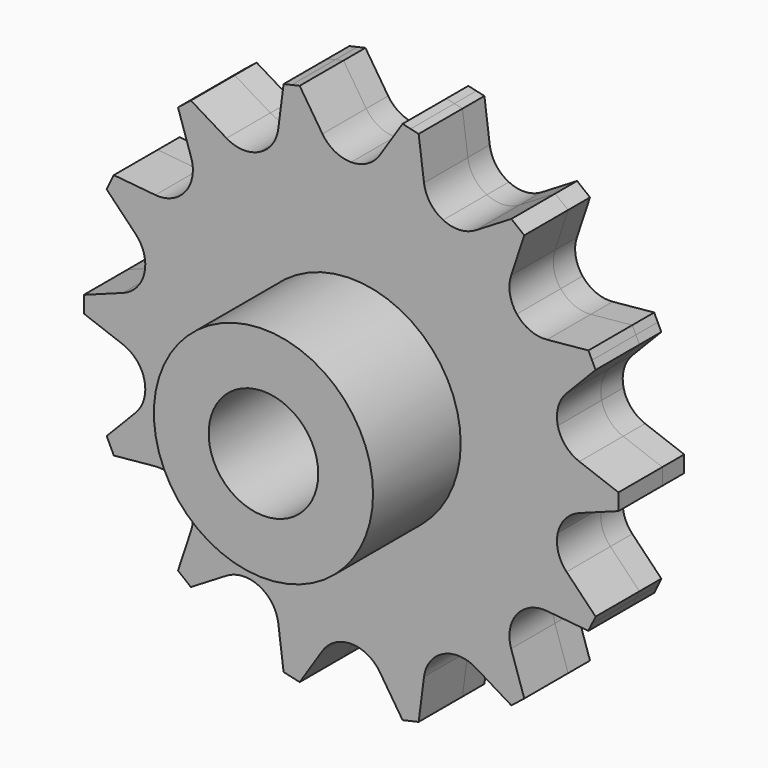
from build123d import *

# Parameters (mm, degrees)
F0_R     = 12.7
F1_DEPTH = 3.175
F0_R_2   = 6.35
F2_DEPTH = 19.05
F3_DEPTH = 6.35


with BuildPart() as f1:
    # F0 (on Front) → F1 (new body, symmetric)
    with BuildSketch(Plane.XZ):
        with BuildLine():
            Line((7.8258368846, 29.9950651579), (6.894686256, 30.2075942125))
            Line((6.894686256, 30.2075942125), (5.9635356275, 30.4201232672))
            Line((5.9635356275, 30.4201232672), (3.3253945197, 26.3703704738))
            ThreePointArc((3.3253945197, 26.3703704738), (1.8912417272, 25.0474890227), (0, 24.5678909672))
            ThreePointArc((0, 24.5678909672), (-1.8912417272, 25.0474890227), (-3.3253945197, 26.3703704738))
            Line((-3.3253945197, 26.3703704738), (-5.9635356275, 30.4201232672))
            Line((-5.9635356275, 30.4201232672), (-6.894686256, 30.2075942125))
            Line((-6.894686256, 30.2075942125), (-7.8258368846, 29.9950651579))
            Line((-7.8258368846, 29.9950651579), (-8.4455980073, 25.2017174402))
            ThreePointArc((-8.4455980073, 25.2017174402), (-9.1637482748, 23.3875868608), (-10.6596083951, 22.1349049115))
            ThreePointArc((-10.6596083951, 22.1349049115), (-12.5716481106, 21.7464287964), (-14.4377518788, 22.3160482237))
            Line((-14.4377518788, 22.3160482237), (-18.5717567705, 24.8201028851))
            Line((-18.5717567705, 24.8201028851), (-19.3184815973, 24.2246097069))
            Line((-19.3184815973, 24.2246097069), (-20.0652064241, 23.6291165287))
            Line((-20.0652064241, 23.6291165287), (-18.5438362705, 19.0415551888))
            ThreePointArc((-18.5438362705, 19.0415551888), (-18.403745545, 17.0954862912), (-19.207950616, 15.3178294712))
            ThreePointArc((-19.207950616, 15.3178294712), (-20.7620854045, 14.1382216445), (-22.690535411, 13.8417589345))
            Line((-22.690535411, 13.8417589345), (-27.5016137176, 14.304156728))
            Line((-27.5016137176, 14.304156728), (-27.9160147326, 13.4436441535))
            Line((-27.9160147326, 13.4436441535), (-28.3304157477, 12.583131579))
            Line((-28.3304157477, 12.583131579), (-24.9692403352, 9.1099794029))
            ThreePointArc((-24.9692403352, 9.1099794029), (-23.9986553028, 7.4174149992), (-23.9519226474, 5.4668700434))
            ThreePointArc((-23.9519226474, 5.4668700434), (-24.8403370538, 3.729766302), (-26.4491801238, 2.6259395303))
            Line((-26.4491801238, 2.6259395303), (-30.9844387827, 0.955096902))
            Line((-30.9844387827, 0.955096902), (-30.9844387827, 0))
            Line((-30.9844387827, 0), (-30.9844387827, -0.955096902))
            Line((-30.9844387827, -0.955096902), (-26.4491801238, -2.6259395303))
            ThreePointArc((-26.4491801238, -2.6259395303), (-24.8403370538, -3.729766302), (-23.9519226474, -5.4668700434))
            ThreePointArc((-23.9519226474, -5.4668700434), (-23.9986553028, -7.4174149992), (-24.9692403352, -9.1099794029))
            Line((-24.9692403352, -9.1099794029), (-28.3304157477, -12.583131579))
            Line((-28.3304157477, -12.583131579), (-27.9160147326, -13.4436441535))
            Line((-27.9160147326, -13.4436441535), (-27.5016137176, -14.304156728))
            Line((-27.5016137176, -14.304156728), (-22.690535411, -13.8417589345))
            ThreePointArc((-22.690535411, -13.8417589345), (-20.7620854045, -14.1382216445), (-19.207950616, -15.3178294712))
            ThreePointArc((-19.207950616, -15.3178294712), (-18.403745545, -17.0954862912), (-18.5438362705, -19.0415551888))
            Line((-18.5438362705, -19.0415551888), (-20.0652064241, -23.6291165287))
            Line((-20.0652064241, -23.6291165287), (-19.3184815973, -24.2246097069))
            Line((-19.3184815973, -24.2246097069), (-18.5717567705, -24.8201028851))
            Line((-18.5717567705, -24.8201028851), (-14.4377518788, -22.3160482237))
            ThreePointArc((-14.4377518788, -22.3160482237), (-12.5716481106, -21.7464287964), (-10.6596083951, -22.1349049115))
            ThreePointArc((-10.6596083951, -22.1349049115), (-9.1637482748, -23.3875868608), (-8.4455980073, -25.2017174402))
            Line((-8.4455980073, -25.2017174402), (-7.8258368846, -29.9950651579))
            Line((-7.8258368846, -29.9950651579), (-6.894686256, -30.2075942125))
            Line((-6.894686256, -30.2075942125), (-5.9635356275, -30.4201232672))
            Line((-5.9635356275, -30.4201232672), (-3.3253945197, -26.3703704738))
            ThreePointArc((-3.3253945197, -26.3703704738), (-1.8912417272, -25.0474890227), (0, -24.5678909672))
            ThreePointArc((0, -24.5678909672), (1.8912417272, -25.0474890227), (3.3253945197, -26.3703704738))
            Line((3.3253945197, -26.3703704738), (5.9635356275, -30.4201232672))
            Line((5.9635356275, -30.4201232672), (6.894686256, -30.2075942125))
            Line((6.894686256, -30.2075942125), (7.8258368846, -29.9950651579))
            Line((7.8258368846, -29.9950651579), (8.4455980073, -25.2017174402))
            ThreePointArc((8.4455980073, -25.2017174402), (9.1637482748, -23.3875868608), (10.6596083951, -22.1349049115))
            ThreePointArc((10.6596083951, -22.1349049115), (12.5716481106, -21.7464287964), (14.4377518788, -22.3160482237))
            Line((14.4377518788, -22.3160482237), (18.5717567705, -24.8201028851))
            Line((18.5717567705, -24.8201028851), (19.3184815973, -24.2246097069))
            Line((19.3184815973, -24.2246097069), (20.0652064241, -23.6291165287))
            Line((20.0652064241, -23.6291165287), (18.5438362705, -19.0415551888))
            ThreePointArc((18.5438362705, -19.0415551888), (18.403745545, -17.0954862912), (19.207950616, -15.3178294712))
            ThreePointArc((19.207950616, -15.3178294712), (20.7620854045, -14.1382216445), (22.690535411, -13.8417589345))
            Line((22.690535411, -13.8417589345), (27.5016137176, -14.304156728))
            Line((27.5016137176, -14.304156728), (27.9160147326, -13.4436441535))
            Line((27.9160147326, -13.4436441535), (28.3304157477, -12.583131579))
            Line((28.3304157477, -12.583131579), (24.9692403352, -9.1099794029))
            ThreePointArc((24.9692403352, -9.1099794029), (23.9986553028, -7.4174149992), (23.9519226474, -5.4668700434))
            ThreePointArc((23.9519226474, -5.4668700434), (24.8403370538, -3.729766302), (26.4491801238, -2.6259395303))
            Line((26.4491801238, -2.6259395303), (30.9844387827, -0.955096902))
            Line((30.9844387827, -0.955096902), (30.9844387827, 0))
            Line((30.9844387827, 0), (30.9844387827, 0.955096902))
            Line((30.9844387827, 0.955096902), (26.4491801238, 2.6259395303))
            ThreePointArc((26.4491801238, 2.6259395303), (24.8403370538, 3.729766302), (23.9519226474, 5.4668700434))
            ThreePointArc((23.9519226474, 5.4668700434), (23.9986553028, 7.4174149992), (24.9692403352, 9.1099794029))
            Line((24.9692403352, 9.1099794029), (28.3304157477, 12.583131579))
            Line((28.3304157477, 12.583131579), (27.9160147326, 13.4436441535))
            Line((27.9160147326, 13.4436441535), (27.5016137176, 14.304156728))
            Line((27.5016137176, 14.304156728), (22.690535411, 13.8417589345))
            ThreePointArc((22.690535411, 13.8417589345), (20.7620854045, 14.1382216445), (19.207950616, 15.3178294712))
            ThreePointArc((19.207950616, 15.3178294712), (18.403745545, 17.0954862912), (18.5438362705, 19.0415551888))
            Line((18.5438362705, 19.0415551888), (20.0652064241, 23.6291165287))
            Line((20.0652064241, 23.6291165287), (19.3184815973, 24.2246097069))
            Line((19.3184815973, 24.2246097069), (18.5717567705, 24.8201028851))
            Line((18.5717567705, 24.8201028851), (14.4377518788, 22.3160482237))
            ThreePointArc((14.4377518788, 22.3160482237), (12.5716481106, 21.7464287964), (10.6596083951, 22.1349049115))
            ThreePointArc((10.6596083951, 22.1349049115), (9.1637482748, 23.3875868608), (8.4455980073, 25.2017174402))
            Line((8.4455980073, 25.2017174402), (7.8258368846, 29.9950651579))
        make_face()
        Circle(F0_R, mode=Mode.SUBTRACT)
    extrude(amount=F1_DEPTH, both=True)

    # F0 (on Front) → F2 (join)
    with BuildSketch(Plane.XZ):
        Circle(F0_R)
        Circle(F0_R_2, mode=Mode.SUBTRACT)
    extrude(amount=F2_DEPTH)


with BuildPart() as f3:
    # F0 (on Front) → F3 (new body)
    with BuildSketch(Plane.XZ):
        with BuildLine():
            Line((7.8258368846, 29.9950651579), (6.894686256, 30.2075942125))
            Line((6.894686256, 30.2075942125), (5.9635356275, 30.4201232672))
            Line((5.9635356275, 30.4201232672), (3.3253945197, 26.3703704738))
            ThreePointArc((3.3253945197, 26.3703704738), (1.8912417272, 25.0474890227), (0, 24.5678909672))
            ThreePointArc((0, 24.5678909672), (-1.8912417272, 25.0474890227), (-3.3253945197, 26.3703704738))
            Line((-3.3253945197, 26.3703704738), (-5.9635356275, 30.4201232672))
            Line((-5.9635356275, 30.4201232672), (-6.894686256, 30.2075942125))
            Line((-6.894686256, 30.2075942125), (-7.8258368846, 29.9950651579))
            Line((-7.8258368846, 29.9950651579), (-8.4455980073, 25.2017174402))
            ThreePointArc((-8.4455980073, 25.2017174402), (-9.1637482748, 23.3875868608), (-10.6596083951, 22.1349049115))
            ThreePointArc((-10.6596083951, 22.1349049115), (-12.5716481106, 21.7464287964), (-14.4377518788, 22.3160482237))
            Line((-14.4377518788, 22.3160482237), (-18.5717567705, 24.8201028851))
            Line((-18.5717567705, 24.8201028851), (-19.3184815973, 24.2246097069))
            Line((-19.3184815973, 24.2246097069), (-20.0652064241, 23.6291165287))
            Line((-20.0652064241, 23.6291165287), (-18.5438362705, 19.0415551888))
            ThreePointArc((-18.5438362705, 19.0415551888), (-18.403745545, 17.0954862912), (-19.207950616, 15.3178294712))
            ThreePointArc((-19.207950616, 15.3178294712), (-20.7620854045, 14.1382216445), (-22.690535411, 13.8417589345))
            Line((-22.690535411, 13.8417589345), (-27.5016137176, 14.304156728))
            Line((-27.5016137176, 14.304156728), (-27.9160147326, 13.4436441535))
            Line((-27.9160147326, 13.4436441535), (-28.3304157477, 12.583131579))
            Line((-28.3304157477, 12.583131579), (-24.9692403352, 9.1099794029))
            ThreePointArc((-24.9692403352, 9.1099794029), (-23.9986553028, 7.4174149992), (-23.9519226474, 5.4668700434))
            ThreePointArc((-23.9519226474, 5.4668700434), (-24.8403370538, 3.729766302), (-26.4491801238, 2.6259395303))
            Line((-26.4491801238, 2.6259395303), (-30.9844387827, 0.955096902))
            Line((-30.9844387827, 0.955096902), (-30.9844387827, 0))
            Line((-30.9844387827, 0), (-30.9844387827, -0.955096902))
            Line((-30.9844387827, -0.955096902), (-26.4491801238, -2.6259395303))
            ThreePointArc((-26.4491801238, -2.6259395303), (-24.8403370538, -3.729766302), (-23.9519226474, -5.4668700434))
            ThreePointArc((-23.9519226474, -5.4668700434), (-23.9986553028, -7.4174149992), (-24.9692403352, -9.1099794029))
            Line((-24.9692403352, -9.1099794029), (-28.3304157477, -12.583131579))
            Line((-28.3304157477, -12.583131579), (-27.9160147326, -13.4436441535))
            Line((-27.9160147326, -13.4436441535), (-27.5016137176, -14.304156728))
            Line((-27.5016137176, -14.304156728), (-22.690535411, -13.8417589345))
            ThreePointArc((-22.690535411, -13.8417589345), (-20.7620854045, -14.1382216445), (-19.207950616, -15.3178294712))
            ThreePointArc((-19.207950616, -15.3178294712), (-18.403745545, -17.0954862912), (-18.5438362705, -19.0415551888))
            Line((-18.5438362705, -19.0415551888), (-20.0652064241, -23.6291165287))
            Line((-20.0652064241, -23.6291165287), (-19.3184815973, -24.2246097069))
            Line((-19.3184815973, -24.2246097069), (-18.5717567705, -24.8201028851))
            Line((-18.5717567705, -24.8201028851), (-14.4377518788, -22.3160482237))
            ThreePointArc((-14.4377518788, -22.3160482237), (-12.5716481106, -21.7464287964), (-10.6596083951, -22.1349049115))
            ThreePointArc((-10.6596083951, -22.1349049115), (-9.1637482748, -23.3875868608), (-8.4455980073, -25.2017174402))
            Line((-8.4455980073, -25.2017174402), (-7.8258368846, -29.9950651579))
            Line((-7.8258368846, -29.9950651579), (-6.894686256, -30.2075942125))
            Line((-6.894686256, -30.2075942125), (-5.9635356275, -30.4201232672))
            Line((-5.9635356275, -30.4201232672), (-3.3253945197, -26.3703704738))
            ThreePointArc((-3.3253945197, -26.3703704738), (-1.8912417272, -25.0474890227), (0, -24.5678909672))
            ThreePointArc((0, -24.5678909672), (1.8912417272, -25.0474890227), (3.3253945197, -26.3703704738))
            Line((3.3253945197, -26.3703704738), (5.9635356275, -30.4201232672))
            Line((5.9635356275, -30.4201232672), (6.894686256, -30.2075942125))
            Line((6.894686256, -30.2075942125), (7.8258368846, -29.9950651579))
            Line((7.8258368846, -29.9950651579), (8.4455980073, -25.2017174402))
            ThreePointArc((8.4455980073, -25.2017174402), (9.1637482748, -23.3875868608), (10.6596083951, -22.1349049115))
            ThreePointArc((10.6596083951, -22.1349049115), (12.5716481106, -21.7464287964), (14.4377518788, -22.3160482237))
            Line((14.4377518788, -22.3160482237), (18.5717567705, -24.8201028851))
            Line((18.5717567705, -24.8201028851), (19.3184815973, -24.2246097069))
            Line((19.3184815973, -24.2246097069), (20.0652064241, -23.6291165287))
            Line((20.0652064241, -23.6291165287), (18.5438362705, -19.0415551888))
            ThreePointArc((18.5438362705, -19.0415551888), (18.403745545, -17.0954862912), (19.207950616, -15.3178294712))
            ThreePointArc((19.207950616, -15.3178294712), (20.7620854045, -14.1382216445), (22.690535411, -13.8417589345))
            Line((22.690535411, -13.8417589345), (27.5016137176, -14.304156728))
            Line((27.5016137176, -14.304156728), (27.9160147326, -13.4436441535))
            Line((27.9160147326, -13.4436441535), (28.3304157477, -12.583131579))
            Line((28.3304157477, -12.583131579), (24.9692403352, -9.1099794029))
            ThreePointArc((24.9692403352, -9.1099794029), (23.9986553028, -7.4174149992), (23.9519226474, -5.4668700434))
            ThreePointArc((23.9519226474, -5.4668700434), (24.8403370538, -3.729766302), (26.4491801238, -2.6259395303))
            Line((26.4491801238, -2.6259395303), (30.9844387827, -0.955096902))
            Line((30.9844387827, -0.955096902), (30.9844387827, 0))
            Line((30.9844387827, 0), (30.9844387827, 0.955096902))
            Line((30.9844387827, 0.955096902), (26.4491801238, 2.6259395303))
            ThreePointArc((26.4491801238, 2.6259395303), (24.8403370538, 3.729766302), (23.9519226474, 5.4668700434))
            ThreePointArc((23.9519226474, 5.4668700434), (23.9986553028, 7.4174149992), (24.9692403352, 9.1099794029))
            Line((24.9692403352, 9.1099794029), (28.3304157477, 12.583131579))
            Line((28.3304157477, 12.583131579), (27.9160147326, 13.4436441535))
            Line((27.9160147326, 13.4436441535), (27.5016137176, 14.304156728))
            Line((27.5016137176, 14.304156728), (22.690535411, 13.8417589345))
            ThreePointArc((22.690535411, 13.8417589345), (20.7620854045, 14.1382216445), (19.207950616, 15.3178294712))
            ThreePointArc((19.207950616, 15.3178294712), (18.403745545, 17.0954862912), (18.5438362705, 19.0415551888))
            Line((18.5438362705, 19.0415551888), (20.0652064241, 23.6291165287))
            Line((20.0652064241, 23.6291165287), (19.3184815973, 24.2246097069))
            Line((19.3184815973, 24.2246097069), (18.5717567705, 24.8201028851))
            Line((18.5717567705, 24.8201028851), (14.4377518788, 22.3160482237))
            ThreePointArc((14.4377518788, 22.3160482237), (12.5716481106, 21.7464287964), (10.6596083951, 22.1349049115))
            ThreePointArc((10.6596083951, 22.1349049115), (9.1637482748, 23.3875868608), (8.4455980073, 25.2017174402))
            Line((8.4455980073, 25.2017174402), (7.8258368846, 29.9950651579))
        make_face()
        Circle(F0_R, mode=Mode.SUBTRACT)
        Circle(F0_R)
        Circle(F0_R_2, mode=Mode.SUBTRACT)
    extrude(amount=F3_DEPTH)


solid = Compound([f1.part, f3.part])
